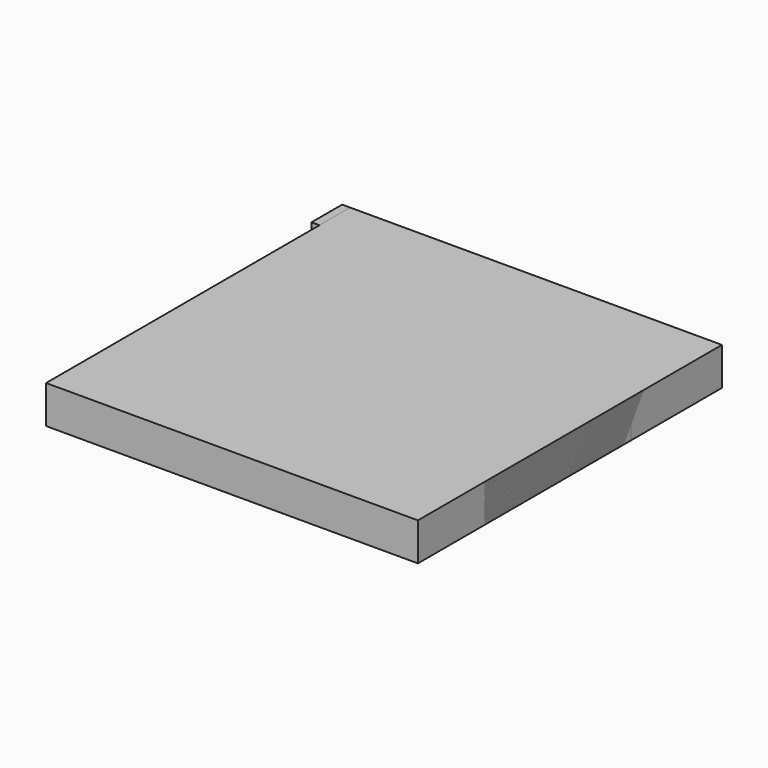
from build123d import *

# Parameters (mm, degrees)
SKETCH_W     = 34.929359
SKETCH_H     = 20.486658
PAD_DEPTH    = 10
SKETCH001_W  = 20.015697
SKETCH001_H  = 44.976456
PAD001_DEPTH = 10
SKETCH002_W  = 29.960587
SKETCH002_H  = 30.027189
PAD002_DEPTH = 10
SKETCH003_W  = 54.766457
SKETCH003_H  = 44.701084
PAD003_DEPTH = 10
SKETCH004_W  = 42.188831
SKETCH004_H  = 78.241425
PAD004_DEPTH = 10
SKETCH005_W  = 100.185661
SKETCH005_H  = 10.112617
PAD005_DEPTH = 10
SKETCH006_W  = 49.87516
SKETCH006_H  = 40.159164
PAD006_DEPTH = 10
SKETCH007_W  = 98.089394
SKETCH007_H  = 100.252266
PAD007_DEPTH = 10
SKETCH008_W  = 50.923298
SKETCH008_H  = 49.592381
PAD008_DEPTH = 10
SKETCH009_W  = 29.960587
SKETCH009_H  = 30.027189
PAD009_DEPTH = 10
SKETCH010_W  = 49.87516
SKETCH010_H  = 40.159164
PAD010_DEPTH = 10
SKETCH011_W  = 54.766457
SKETCH011_H  = 44.701084
PAD011_DEPTH = 10
SKETCH012_W  = 29.960587
SKETCH012_H  = 30.027189
PAD012_DEPTH = 10
SKETCH013_W  = 100.185661
SKETCH013_H  = 10.112617
PAD013_DEPTH = 10
SKETCH014_W  = 98.089394
SKETCH014_H  = 100.252266
PAD014_DEPTH = 10


with BuildPart() as body:
    # Sketch → Pad (new body)
    with BuildSketch(Plane.XY):
        with Locations((17.464679, 10.243329)):
            Rectangle(SKETCH_W, SKETCH_H)
    extrude(amount=PAD_DEPTH)


with BuildPart() as body_1:
    # Body placement: moved
    add(body.part.moved(Location((-34.929359, -20.486658, 0))))


with BuildPart() as body001:
    # Sketch001 → Pad001 (new body)
    with BuildSketch(Plane.XY):
        with Locations((10.007848, 22.488228)):
            Rectangle(SKETCH001_W, SKETCH001_H)
    extrude(amount=PAD001_DEPTH)


with BuildPart() as body001_1:
    # Body001 placement: moved
    add(body001.part.moved(Location((-20.015697, -44.976456, 0))))


with BuildPart() as body002:
    # Sketch002 → Pad002 (new body)
    with BuildSketch(Plane.XY):
        with Locations((14.980294, 15.013594)):
            Rectangle(SKETCH002_W, SKETCH002_H)
    extrude(amount=PAD002_DEPTH)


with BuildPart() as body002_1:
    # Body002 placement: moved
    add(body002.part.moved(Location((-29.960587, -30.027189, 0))))


with BuildPart() as body003:
    # Sketch003 → Pad003 (new body)
    with BuildSketch(Plane.XY):
        with Locations((27.383228, 22.350542)):
            Rectangle(SKETCH003_W, SKETCH003_H)
    extrude(amount=PAD003_DEPTH)


with BuildPart() as body003_1:
    # Body003 placement: moved
    add(body003.part.moved(Location((-54.766457, -44.701084, 0))))


with BuildPart() as body004:
    # Sketch004 → Pad004 (new body)
    with BuildSketch(Plane.XY):
        with Locations((21.094416, 39.120712)):
            Rectangle(SKETCH004_W, SKETCH004_H)
    extrude(amount=PAD004_DEPTH)


with BuildPart() as body004_1:
    # Body004 placement: moved
    add(body004.part.moved(Location((-42.188831, -78.241425, 0))))


with BuildPart() as body005:
    # Sketch005 → Pad005 (new body)
    with BuildSketch(Plane.XY):
        with Locations((50.09283, 5.056309)):
            Rectangle(SKETCH005_W, SKETCH005_H)
    extrude(amount=PAD005_DEPTH)


with BuildPart() as body005_1:
    # Body005 placement: moved
    add(body005.part.moved(Location((-100.185661, -10.112617, 0))))


with BuildPart() as body006:
    # Sketch006 → Pad006 (new body)
    with BuildSketch(Plane.XY):
        with Locations((24.93758, 20.079582)):
            Rectangle(SKETCH006_W, SKETCH006_H)
    extrude(amount=PAD006_DEPTH)


with BuildPart() as body006_1:
    # Body006 placement: moved
    add(body006.part.moved(Location((-49.87516, -40.159164, 0))))


with BuildPart() as body007:
    # Sketch007 → Pad007 (new body)
    with BuildSketch(Plane.XY):
        with Locations((49.044697, 50.126133)):
            Rectangle(SKETCH007_W, SKETCH007_H)
    extrude(amount=PAD007_DEPTH)


with BuildPart() as body007_1:
    # Body007 placement: moved
    add(body007.part.moved(Location((-98.089394, -100.252266, 0))))


with BuildPart() as body008:
    # Sketch008 → Pad008 (new body)
    with BuildSketch(Plane.XY):
        with Locations((25.461649, 24.79619)):
            Rectangle(SKETCH008_W, SKETCH008_H)
    extrude(amount=PAD008_DEPTH)


with BuildPart() as body008_1:
    # Body008 placement: moved
    add(body008.part.moved(Location((-50.923298, -49.592381, 0))))


with BuildPart() as body009:
    # Sketch009 → Pad009 (new body)
    with BuildSketch(Plane.XY):
        with Locations((14.980294, 15.013594)):
            Rectangle(SKETCH009_W, SKETCH009_H)
    extrude(amount=PAD009_DEPTH)


with BuildPart() as body009_1:
    # Body009 placement: moved
    add(body009.part.moved(Location((-29.960587, -30.027189, 0))))


with BuildPart() as body010:
    # Sketch010 → Pad010 (new body)
    with BuildSketch(Plane.XY):
        with Locations((24.93758, 20.079582)):
            Rectangle(SKETCH010_W, SKETCH010_H)
    extrude(amount=PAD010_DEPTH)


with BuildPart() as body010_1:
    # Body010 placement: moved
    add(body010.part.moved(Location((-49.87516, -40.159164, 0))))


with BuildPart() as body011:
    # Sketch011 → Pad011 (new body)
    with BuildSketch(Plane.XY):
        with Locations((27.383228, 22.350542)):
            Rectangle(SKETCH011_W, SKETCH011_H)
    extrude(amount=PAD011_DEPTH)


with BuildPart() as body011_1:
    # Body011 placement: moved
    add(body011.part.moved(Location((-54.766457, -44.701084, 0))))


with BuildPart() as body012:
    # Sketch012 → Pad012 (new body)
    with BuildSketch(Plane.XY):
        with Locations((14.980294, 15.013594)):
            Rectangle(SKETCH012_W, SKETCH012_H)
    extrude(amount=PAD012_DEPTH)


with BuildPart() as body012_1:
    # Body012 placement: moved
    add(body012.part.moved(Location((-29.960587, -30.027189, 0))))


with BuildPart() as body013:
    # Sketch013 → Pad013 (new body)
    with BuildSketch(Plane.XY):
        with Locations((50.09283, 5.056309)):
            Rectangle(SKETCH013_W, SKETCH013_H)
    extrude(amount=PAD013_DEPTH)


with BuildPart() as body013_1:
    # Body013 placement: moved
    add(body013.part.moved(Location((-100.185661, -10.112617, 0))))


with BuildPart() as body014:
    # Sketch014 → Pad014 (new body)
    with BuildSketch(Plane.XY):
        with Locations((49.044697, 50.126133)):
            Rectangle(SKETCH014_W, SKETCH014_H)
    extrude(amount=PAD014_DEPTH)


with BuildPart() as body014_1:
    # Body014 placement: moved
    add(body014.part.moved(Location((-98.089394, -100.252266, 0))))


solid = Compound([body_1.part, body001_1.part, body002_1.part, body003_1.part, body004_1.part, body005_1.part, body006_1.part, body007_1.part, body008_1.part, body009_1.part, body010_1.part, body011_1.part, body012_1.part, body013_1.part, body014_1.part])
